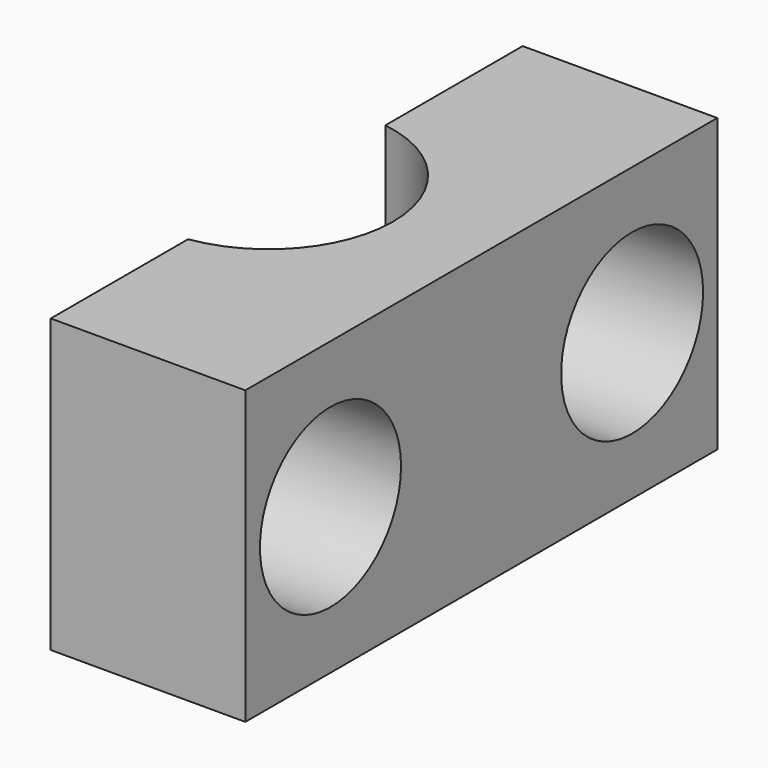
from build123d import *

# Parameters (mm, degrees)
F1_DEPTH = 9.6
F2_R     = 1.65
F3_DEPTH = 25
F2_R_2   = 2.9
F2_R_3   = 2.917698
F4_DEPTH = 4


with BuildPart() as f1:
    # F0 (on Top) → F1 (new body)
    with BuildSketch(Plane.XY):
        with BuildLine():
            ThreePointArc((-6.4, 13.75586), (-3.89597, 12.378619), (-2.9, 9.7))
            ThreePointArc((-2.9, 9.7), (-3.89597, 7.021381), (-6.4, 5.64414))
            Line((-6.4, 5.64414), (-6.4, 0))
            Line((-6.4, 0), (0, 0))
            Line((0, 0), (0, 19.4))
            Line((0, 19.4), (-6.4, 19.4))
            Line((-6.4, 19.4), (-6.4, 13.75586))
        make_face()
    extrude(amount=F1_DEPTH)

    # F2 (on Right) → F3 (cut)
    with BuildSketch(Plane.YZ):
        with Locations((3.5, 4.8)):
            Circle(F2_R)
        with Locations((15.9, 4.8)):
            Circle(F2_R)
    extrude(amount=-F3_DEPTH, mode=Mode.SUBTRACT)

    # F2 (on Right) → F4 (cut)
    with BuildSketch(Plane.YZ):
        with Locations((3.5, 4.8)):
            Circle(F2_R_2)
        with Locations((3.5, 4.8)):
            Circle(F2_R, mode=Mode.SUBTRACT)
        with Locations((15.9, 4.8)):
            Circle(F2_R_3)
        with Locations((15.9, 4.8)):
            Circle(F2_R, mode=Mode.SUBTRACT)
    extrude(amount=-F4_DEPTH, mode=Mode.SUBTRACT)


solid = f1.part
